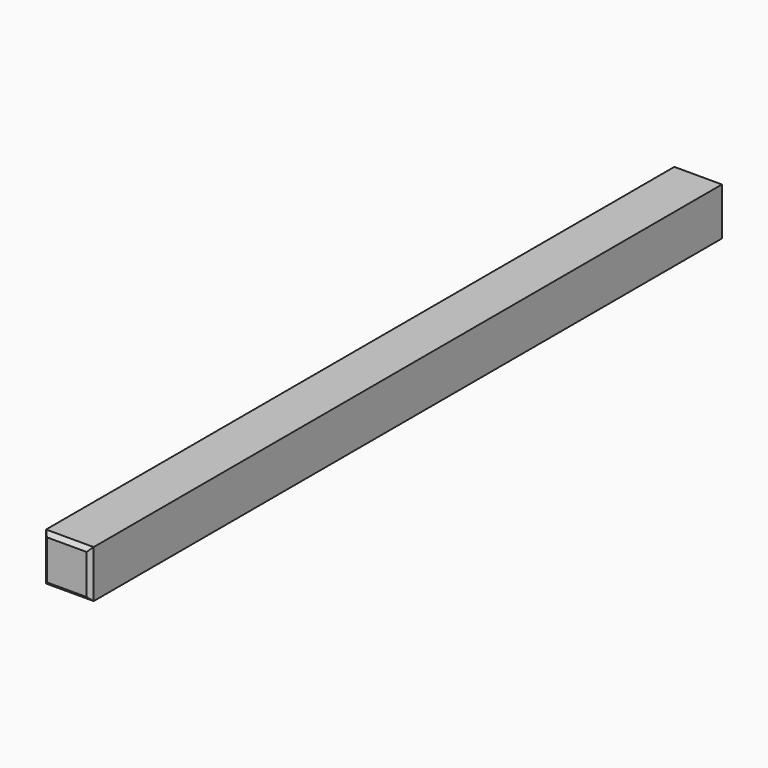
from build123d import *

# Parameters (mm, degrees)
F1_W     = 6
F1_H     = 6
F2_DEPTH = 100
F3_SIZE  = 0.5


with BuildPart() as f2:
    # F1 (on Front) → F2 (new body)
    with BuildSketch(Plane.XZ):
        Rectangle(F1_W, F1_H)
    extrude(amount=F2_DEPTH)

    # F3
    f3_edges = [f2.edges().sort_by_distance(p)[0] for p in [
        (0, -100, 3),
        (3, -100, 0),
        (0, -100, -3),
        (-3, -100, 0),
        (0, 0, 3),
        (-3, 0, 0),
        (0, 0, -3),
        (3, 0, 0),
    ]]
    chamfer(f3_edges, length=F3_SIZE)


solid = f2.part
